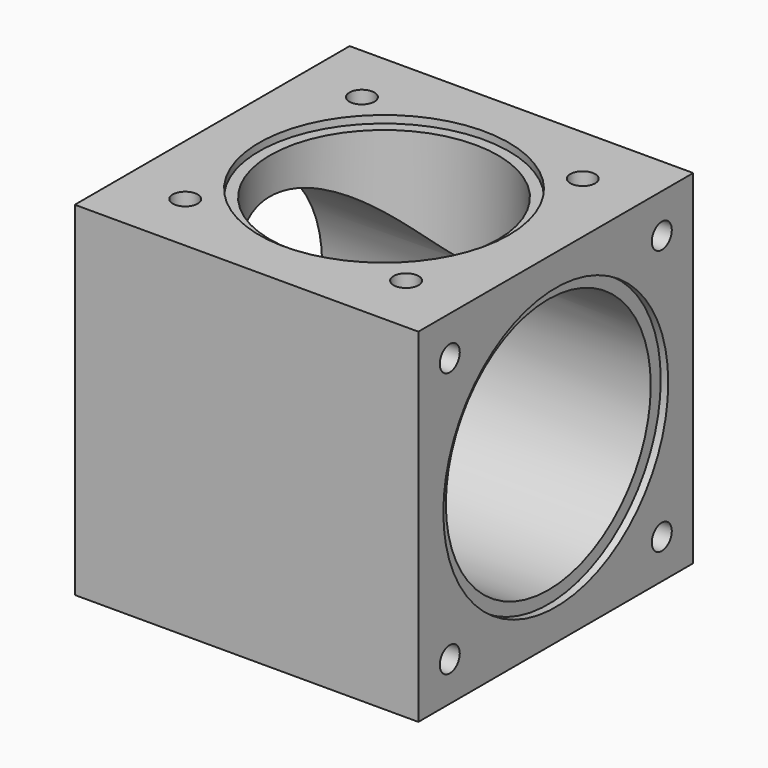
from build123d import *

# Parameters (mm, degrees)
F0_W      = 110
F0_H      = 110
F0_R      = 4
F0_R_2    = 40
F0_R_3    = 36.5
F1_DEPTH  = 110
F2_DEPTH  = 2.4
F3_DEPTH  = 36.5
F4_DEPTH  = 12
F5_R      = 41
F6_DEPTH  = 110.001
F5_R_2    = 45
F7_DEPTH  = 2.4
F5_R_3    = 4
F8_DEPTH  = 12
F9_R      = 45
F9_R_2    = 41
F10_DEPTH = 2.4
F9_R_3    = 4
F11_DEPTH = 12


with BuildPart() as f1:
    # F0 (on Top) → F1 (new body)
    with BuildSketch(Plane.XY):
        Rectangle(F0_W, F0_H)
        with Locations((-35.3553390593, -35.3553390593)):
            Circle(F0_R, mode=Mode.SUBTRACT)
        with Locations((35.3553390593, -35.3553390593)):
            Circle(F0_R, mode=Mode.SUBTRACT)
        with Locations((-35.3553390593, 35.3553390593)):
            Circle(F0_R, mode=Mode.SUBTRACT)
        Circle(F0_R_2, mode=Mode.SUBTRACT)
        with Locations((35.3553390593, 35.3553390593)):
            Circle(F0_R, mode=Mode.SUBTRACT)
        Circle(F0_R_2)
        Circle(F0_R_3, mode=Mode.SUBTRACT)
        Circle(F0_R_3)
        with Locations((35.3553390593, -35.3553390593)):
            Circle(F0_R)
        with Locations((-35.3553390593, -35.3553390593)):
            Circle(F0_R)
        with Locations((-35.3553390593, 35.3553390593)):
            Circle(F0_R)
        with Locations((35.3553390593, 35.3553390593)):
            Circle(F0_R)
    extrude(amount=-F1_DEPTH)

    # F0 (on Top) → F2 (cut)
    with BuildSketch(Plane.XY):
        Circle(F0_R_2)
        Circle(F0_R_3, mode=Mode.SUBTRACT)
    extrude(amount=-F2_DEPTH, mode=Mode.SUBTRACT)

    # F0 (on Top) → F3 (cut)
    with BuildSketch(Plane.XY):
        Circle(F0_R_3)
    extrude(amount=-F3_DEPTH, mode=Mode.SUBTRACT)

    # F0 (on Top) → F4 (cut)
    with BuildSketch(Plane.XY):
        with Locations((35.3553390593, 35.3553390593)):
            Circle(F0_R)
        with Locations((-35.3553390593, 35.3553390593)):
            Circle(F0_R)
        with Locations((-35.3553390593, -35.3553390593)):
            Circle(F0_R)
        with Locations((35.3553390593, -35.3553390593)):
            Circle(F0_R)
    extrude(amount=-F4_DEPTH, mode=Mode.SUBTRACT)

    # F5 (on face) → F6 (cut, through all)
    with BuildSketch(Plane.YZ.offset(55)):
        with Locations((0, -55)):
            Circle(F5_R)
    extrude(amount=-F6_DEPTH, mode=Mode.SUBTRACT)

    # F5 (on face) → F7 (cut)
    with BuildSketch(Plane.YZ.offset(55)):
        with Locations((0, -55)):
            Circle(F5_R_2)
        with Locations((0, -55)):
            Circle(F5_R, mode=Mode.SUBTRACT)
    extrude(amount=-F7_DEPTH, mode=Mode.SUBTRACT)

    # F5 (on face) → F8 (cut)
    with BuildSketch(Plane.YZ.offset(55)):
        with Locations((42.4264068712, -12.5735931288)):
            Circle(F5_R_3)
        with Locations((-42.4264068712, -12.5735931288)):
            Circle(F5_R_3)
        with Locations((-42.4264068712, -97.4264068712)):
            Circle(F5_R_3)
        with Locations((42.4264068712, -97.4264068712)):
            Circle(F5_R_3)
    extrude(amount=-F8_DEPTH, mode=Mode.SUBTRACT)

    # F9 (on face) → F10 (cut)
    with BuildSketch(Plane(origin=(-55, 0, 0), x_dir=(0, -1, 0), z_dir=(-1, 0, 0))):
        with Locations((0, -55)):
            Circle(F9_R)
        with Locations((0, -55)):
            Circle(F9_R_2, mode=Mode.SUBTRACT)
    extrude(amount=-F10_DEPTH, mode=Mode.SUBTRACT)

    # F9 (on face) → F11 (cut)
    with BuildSketch(Plane(origin=(-55, 0, 0), x_dir=(0, -1, 0), z_dir=(-1, 0, 0))):
        with Locations((-42.4264068712, -12.5735931288)):
            Circle(F9_R_3)
        with Locations((42.4264068712, -12.5735931288)):
            Circle(F9_R_3)
        with Locations((42.4264068712, -97.4264068712)):
            Circle(F9_R_3)
        with Locations((-42.4264068712, -97.4264068712)):
            Circle(F9_R_3)
    extrude(amount=-F11_DEPTH, mode=Mode.SUBTRACT)


solid = f1.part
